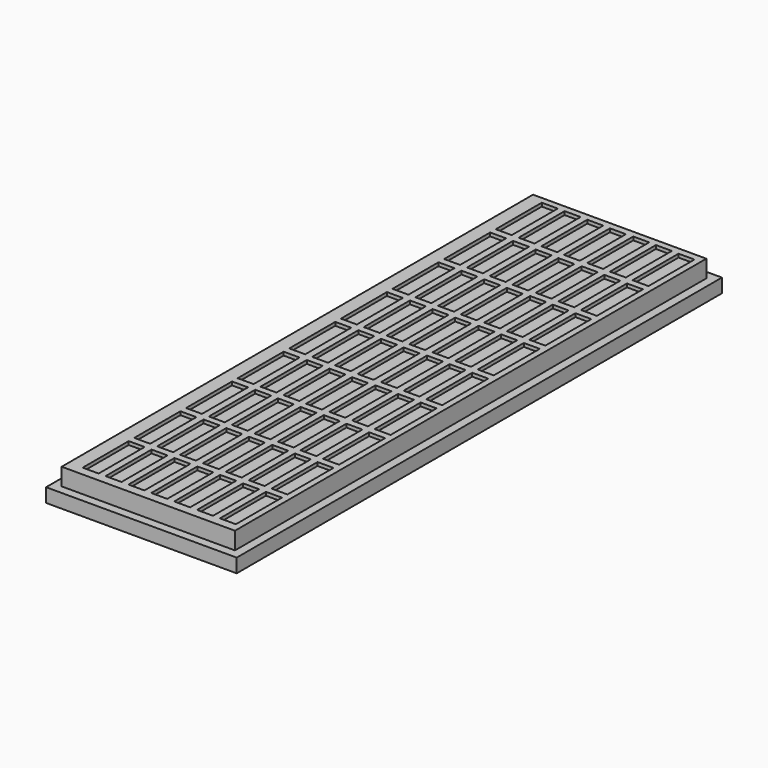
from build123d import *

# Parameters (mm, degrees)
F0_W     = 55
F0_H     = 175
F1_DEPTH = 4
F2_W     = 50
F2_H     = 170
F3_DEPTH = 5
F4_W     = 4.6
F4_H     = 16.6
F4_W_2   = 4.5994278262
F4_H_2   = 16.5130956454
F4_W_3   = 4.5988556524
F4_H_3   = 16.4261912908
F4_H_4   = 0.0182
F4_H_5   = 16.5818
F4_H_6   = 0.0364
F4_H_7   = 16.5636
F4_H_8   = 0.0546
F4_H_9   = 16.5454
F4_H_10  = 0.0728
F4_H_11  = 16.5272
F4_H_12  = 0.091
F4_H_13  = 16.509
F4_H_14  = 0.1092
F4_H_15  = 16.4908
F4_H_16  = 0.1274
F4_W_4   = 0.0011443476
F4_H_17  = 16.5535912908
F5_DEPTH = 1


with BuildPart() as f1:
    # F0 (on Top) → F1 (new body)
    with BuildSketch(Plane.XY):
        with Locations((0.5448670685, 73.8806699446)):
            Rectangle(F0_W, F0_H)
    extrude(amount=F1_DEPTH)

    # F2 (on face) → F3 (join)
    with BuildSketch(Plane.XY.offset(4)):
        with Locations((0.5448670685, 73.8806699446)):
            Rectangle(F2_W, F2_H)
    extrude(amount=F3_DEPTH)

    # F4 (on face) → F5 (cut)
    with BuildSketch(Plane.XY.offset(9)):
        with Locations((21.4275110204, 148.5806699446)):
            Rectangle(F4_W, F4_H)
        with Locations((21.4275110204, 129.9806699446)):
            Rectangle(F4_W, F4_H)
        with Locations((14.8280831942, 148.6675742992)):
            Rectangle(F4_W, F4_H)
        with Locations((14.8280831942, 130.0675742992)):
            Rectangle(F4_W, F4_H)
        with Locations((8.228655368, 148.7544786538)):
            Rectangle(F4_W, F4_H)
        with Locations((8.228655368, 130.1544786538)):
            Rectangle(F4_W, F4_H)
        with Locations((21.4275110204, 111.3806699446)):
            Rectangle(F4_W, F4_H)
        with Locations((14.8280831942, 111.4675742992)):
            Rectangle(F4_W, F4_H)
        with Locations((21.4275110204, 92.7806699446)):
            Rectangle(F4_W, F4_H)
        with Locations((14.8280831942, 92.8675742992)):
            Rectangle(F4_W, F4_H)
        with Locations((8.228655368, 111.5544786538)):
            Rectangle(F4_W, F4_H)
        with Locations((8.228655368, 92.9544786538)):
            Rectangle(F4_W, F4_H)
        with Locations((21.4275110204, 74.1806699446)):
            Rectangle(F4_W, F4_H)
        with Locations((14.8280831942, 74.2675742992)):
            Rectangle(F4_W, F4_H)
        with Locations((21.4275110204, 55.5806699446)):
            Rectangle(F4_W, F4_H)
        with Locations((14.8280831942, 55.6675742992)):
            Rectangle(F4_W, F4_H)
        with Locations((8.228655368, 74.3544786538)):
            Rectangle(F4_W, F4_H)
        with Locations((8.228655368, 55.7544786538)):
            Rectangle(F4_W, F4_H)
        with Locations((21.4275110204, 36.9806699446)):
            Rectangle(F4_W, F4_H)
        with Locations((14.8280831942, 37.0675742992)):
            Rectangle(F4_W, F4_H)
        with Locations((21.4275110204, 18.3806699446)):
            Rectangle(F4_W, F4_H)
        Polygon((17.1280831942, 10.1675742992), (17.1280831942, 26.7675742992), (12.5280831942, 26.7675742992), (12.5280831942, 26.6806699446), (17.1275110204, 26.6806699446), (17.1275110204, 10.1675742992), align=None)
        Polygon((17.1275110204, 10.0806699446), (17.1275110204, 10.1675742992), (12.5280831942, 10.1675742992), (12.5280831942, 26.6806699446), (12.5275110204, 26.6806699446), (12.5275110204, 10.0806699446), align=None)
        with Locations((14.8277971073, 18.4241221219)):
            Rectangle(F4_W_2, F4_H_2)
        with Locations((8.228655368, 37.1544786538)):
            Rectangle(F4_W, F4_H)
        Polygon((10.528655368, 10.2544786538), (10.528655368, 26.8544786538), (5.928655368, 26.8544786538), (5.928655368, 26.6806699446), (10.5275110204, 26.6806699446), (10.5275110204, 10.2544786538), align=None)
        with Locations((8.2280831942, 18.4675742992)):
            Rectangle(F4_W_3, F4_H_3)
        Polygon((5.928655368, 10.2544786538), (5.928655368, 26.6806699446), (5.9275110204, 26.6806699446), (5.9275110204, 10.0806699446), (10.5275110204, 10.0806699446), (10.5275110204, 10.2544786538), align=None)
        with Locations((1.6275110204, 148.5806699446)):
            Rectangle(F4_W, F4_H)
        with Locations((-4.9719168058, 148.6675742992)):
            Rectangle(F4_W, F4_H)
        with Locations((1.6275110204, 129.9806699446)):
            Rectangle(F4_W, F4_H)
        with Locations((-4.9719168058, 130.0675742992)):
            Rectangle(F4_W, F4_H)
        with Locations((-11.571344632, 148.7544786538)):
            Rectangle(F4_W, F4_H)
        with Locations((-11.571344632, 138.4453786538)):
            Rectangle(F4_W, F4_H_4)
        with Locations((-11.571344632, 130.1453786538)):
            Rectangle(F4_W, F4_H_5)
        with Locations((-11.571344632, 121.8453786538)):
            Rectangle(F4_W, F4_H_4)
        with Locations((1.6275110204, 111.3806699446)):
            Rectangle(F4_W, F4_H)
        with Locations((-4.9719168058, 111.4675742992)):
            Rectangle(F4_W, F4_H)
        with Locations((1.6275110204, 92.7806699446)):
            Rectangle(F4_W, F4_H)
        with Locations((-4.9719168058, 92.8675742992)):
            Rectangle(F4_W, F4_H)
        with Locations((-11.571344632, 119.8362786538)):
            Rectangle(F4_W, F4_H_6)
        with Locations((-11.571344632, 111.5362786538)):
            Rectangle(F4_W, F4_H_7)
        with Locations((-11.571344632, 103.2362786538)):
            Rectangle(F4_W, F4_H_6)
        with Locations((-11.571344632, 101.2271786538)):
            Rectangle(F4_W, F4_H_8)
        with Locations((-11.571344632, 92.9271786538)):
            Rectangle(F4_W, F4_H_9)
        with Locations((-11.571344632, 84.6271786538)):
            Rectangle(F4_W, F4_H_8)
        with Locations((1.6275110204, 74.1806699446)):
            Rectangle(F4_W, F4_H)
        with Locations((-4.9719168058, 74.2675742992)):
            Rectangle(F4_W, F4_H)
        with Locations((1.6275110204, 55.5806699446)):
            Rectangle(F4_W, F4_H)
        with Locations((-4.9719168058, 55.6675742992)):
            Rectangle(F4_W, F4_H)
        with Locations((-11.571344632, 82.6180786538)):
            Rectangle(F4_W, F4_H_10)
        with Locations((-11.571344632, 74.3180786538)):
            Rectangle(F4_W, F4_H_11)
        with Locations((-11.571344632, 66.0180786538)):
            Rectangle(F4_W, F4_H_10)
        with Locations((-11.571344632, 64.0089786538)):
            Rectangle(F4_W, F4_H_12)
        with Locations((-11.571344632, 55.7089786538)):
            Rectangle(F4_W, F4_H_13)
        with Locations((-11.571344632, 47.4089786538)):
            Rectangle(F4_W, F4_H_12)
        with Locations((1.6275110204, 36.9806699446)):
            Rectangle(F4_W, F4_H)
        with Locations((-4.9719168058, 37.0675742992)):
            Rectangle(F4_W, F4_H)
        with Locations((1.6275110204, 18.3806699446)):
            Rectangle(F4_W, F4_H)
        Polygon((-2.6719168058, 10.1675742992), (-2.6719168058, 26.7675742992), (-7.2719168058, 26.7675742992), (-7.2719168058, 26.6806699446), (-2.6724889796, 26.6806699446), (-2.6724889796, 10.1675742992), align=None)
        Polygon((-2.6724889796, 10.0806699446), (-2.6724889796, 10.1675742992), (-7.2719168058, 10.1675742992), (-7.2719168058, 26.6806699446), (-7.2724889796, 26.6806699446), (-7.2724889796, 10.0806699446), align=None)
        with Locations((-4.9722028927, 18.4241221219)):
            Rectangle(F4_W_2, F4_H_2)
        with Locations((-11.571344632, 45.3998786538)):
            Rectangle(F4_W, F4_H_14)
        with Locations((-11.571344632, 37.0998786538)):
            Rectangle(F4_W, F4_H_15)
        with Locations((-11.571344632, 28.7998786538)):
            Rectangle(F4_W, F4_H_14)
        with Locations((-11.571344632, 26.7907786538)):
            Rectangle(F4_W, F4_H_16)
        Polygon((-9.271344632, 10.2544786538), (-9.271344632, 26.7270786538), (-13.871344632, 26.7270786538), (-13.871344632, 26.6806699446), (-9.2724889796, 26.6806699446), (-9.2724889796, 10.2544786538), align=None)
        with Locations((-9.2719168058, 10.1907786538)):
            Rectangle(F4_W_4, F4_H_16)
        with Locations((-11.5719168058, 18.4675742992)):
            Rectangle(F4_W_3, F4_H_3)
        Polygon((-13.871344632, 10.2544786538), (-13.871344632, 26.6806699446), (-13.8724889796, 26.6806699446), (-13.8724889796, 10.0806699446), (-9.2724889796, 10.0806699446), (-9.2724889796, 10.1270786538), (-13.871344632, 10.1270786538), align=None)
        with Locations((-11.5719168058, 10.1907786538)):
            Rectangle(F4_W_3, F4_H_16)
        with Locations((-18.171344632, 148.7544786538)):
            Rectangle(F4_W, F4_H)
        with Locations((-18.171344632, 130.1362786538)):
            Rectangle(F4_W, F4_H)
        with Locations((-18.171344632, 111.5180786538)):
            Rectangle(F4_W, F4_H)
        with Locations((-18.171344632, 92.8998786538)):
            Rectangle(F4_W, F4_H)
        with Locations((-18.171344632, 74.2816786538)):
            Rectangle(F4_W, F4_H)
        with Locations((-18.171344632, 55.6634786538)):
            Rectangle(F4_W, F4_H)
        with Locations((-18.171344632, 37.0452786538)):
            Rectangle(F4_W, F4_H)
        Polygon((-15.871344632, 26.7270786538), (-20.471344632, 26.7270786538), (-20.471344632, 26.6806699446), (-15.8724889796, 26.6806699446), (-15.8724889796, 10.1270786538), (-15.871344632, 10.1270786538), align=None)
        with Locations((-18.1719168058, 18.4038742992)):
            Rectangle(F4_W_3, F4_H_17)
        Polygon((-20.471344632, 10.1270786538), (-20.471344632, 26.6806699446), (-20.4724889796, 26.6806699446), (-20.4724889796, 10.0806699446), (-15.8724889796, 10.0806699446), (-15.8724889796, 10.1270786538), align=None)
        with Locations((21.4275110204, -0.2193300554)):
            Rectangle(F4_W, F4_H)
        with Locations((14.8275110204, -0.2193300554)):
            Rectangle(F4_W, F4_H)
        with Locations((8.2275110204, -0.2193300554)):
            Rectangle(F4_W, F4_H)
        with Locations((1.6275110204, -0.2193300554)):
            Rectangle(F4_W, F4_H)
        with Locations((-4.9724889796, -0.2193300554)):
            Rectangle(F4_W, F4_H)
        with Locations((-11.5724889796, -0.2193300554)):
            Rectangle(F4_W, F4_H)
        with Locations((-18.1724889796, -0.2193300554)):
            Rectangle(F4_W, F4_H)
    extrude(amount=-F5_DEPTH, mode=Mode.SUBTRACT)


solid = f1.part
